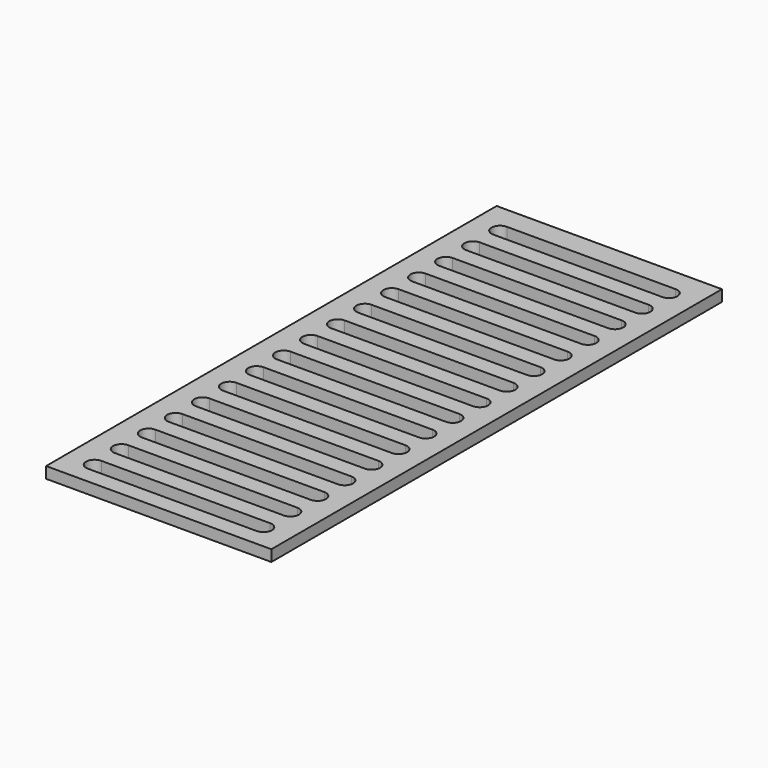
from build123d import *

# Parameters (mm, degrees)
F0_W     = 400
F0_H     = 1000
F1_DEPTH = 20


with BuildPart() as f1:
    # F0 (on Top) → F1 (new body)
    with BuildSketch(Plane.XY):
        with Locations((200, 500)):
            Rectangle(F0_W, F0_H)
        with BuildLine():
            Line((350, 30), (50, 30))
            ThreePointArc((50, 30), (35, 45), (50, 60))
            Line((50, 60), (350, 60))
            ThreePointArc((350, 60), (365, 45), (350, 30))
        make_face(mode=Mode.SUBTRACT)
        with BuildLine():
            Line((350, 90), (50, 90))
            ThreePointArc((50, 90), (35, 105), (50, 120))
            Line((50, 120), (350, 120))
            ThreePointArc((350, 120), (365, 105), (350, 90))
        make_face(mode=Mode.SUBTRACT)
        with BuildLine():
            Line((350, 150), (50, 150))
            ThreePointArc((50, 150), (35, 165), (50, 180))
            Line((50, 180), (350, 180))
            ThreePointArc((350, 180), (365, 165), (350, 150))
        make_face(mode=Mode.SUBTRACT)
        with BuildLine():
            Line((350, 210), (50, 210))
            ThreePointArc((50, 210), (35, 225), (50, 240))
            Line((50, 240), (350, 240))
            ThreePointArc((350, 240), (365, 225), (350, 210))
        make_face(mode=Mode.SUBTRACT)
        with BuildLine():
            Line((350, 270), (50, 270))
            ThreePointArc((50, 270), (35, 285), (50, 300))
            Line((50, 300), (350, 300))
            ThreePointArc((350, 300), (365, 285), (350, 270))
        make_face(mode=Mode.SUBTRACT)
        with BuildLine():
            Line((350, 330), (50, 330))
            ThreePointArc((50, 330), (35, 345), (50, 360))
            Line((50, 360), (350, 360))
            ThreePointArc((350, 360), (365, 345), (350, 330))
        make_face(mode=Mode.SUBTRACT)
        with BuildLine():
            Line((350, 390), (50, 390))
            ThreePointArc((50, 390), (35, 405), (50, 420))
            Line((50, 420), (350, 420))
            ThreePointArc((350, 420), (365, 405), (350, 390))
        make_face(mode=Mode.SUBTRACT)
        with BuildLine():
            Line((350, 450), (50, 450))
            ThreePointArc((50, 450), (35, 465), (50, 480))
            Line((50, 480), (350, 480))
            ThreePointArc((350, 480), (365, 465), (350, 450))
        make_face(mode=Mode.SUBTRACT)
        with BuildLine():
            Line((350, 510), (50, 510))
            ThreePointArc((50, 510), (35, 525), (50, 540))
            Line((50, 540), (350, 540))
            ThreePointArc((350, 540), (365, 525), (350, 510))
        make_face(mode=Mode.SUBTRACT)
        with BuildLine():
            Line((350, 570), (50, 570))
            ThreePointArc((50, 570), (35, 585), (50, 600))
            Line((50, 600), (350, 600))
            ThreePointArc((350, 600), (365, 585), (350, 570))
        make_face(mode=Mode.SUBTRACT)
        with BuildLine():
            Line((350, 630), (50, 630))
            ThreePointArc((50, 630), (35, 645), (50, 660))
            Line((50, 660), (350, 660))
            ThreePointArc((350, 660), (365, 645), (350, 630))
        make_face(mode=Mode.SUBTRACT)
        with BuildLine():
            Line((350, 690), (50, 690))
            ThreePointArc((50, 690), (35, 705), (50, 720))
            Line((50, 720), (350, 720))
            ThreePointArc((350, 720), (365, 705), (350, 690))
        make_face(mode=Mode.SUBTRACT)
        with BuildLine():
            Line((350, 750), (50, 750))
            ThreePointArc((50, 750), (35, 765), (50, 780))
            Line((50, 780), (350, 780))
            ThreePointArc((350, 780), (365, 765), (350, 750))
        make_face(mode=Mode.SUBTRACT)
        with BuildLine():
            Line((350, 810), (50, 810))
            ThreePointArc((50, 810), (35, 825), (50, 840))
            Line((50, 840), (350, 840))
            ThreePointArc((350, 840), (365, 825), (350, 810))
        make_face(mode=Mode.SUBTRACT)
        with BuildLine():
            Line((350, 870), (50, 870))
            ThreePointArc((50, 870), (35, 885), (50, 900))
            Line((50, 900), (350, 900))
            ThreePointArc((350, 900), (365, 885), (350, 870))
        make_face(mode=Mode.SUBTRACT)
        with BuildLine():
            Line((350, 930), (50, 930))
            ThreePointArc((50, 930), (35, 945), (50, 960))
            Line((50, 960), (350, 960))
            ThreePointArc((350, 960), (365, 945), (350, 930))
        make_face(mode=Mode.SUBTRACT)
    extrude(amount=F1_DEPTH)


solid = f1.part
